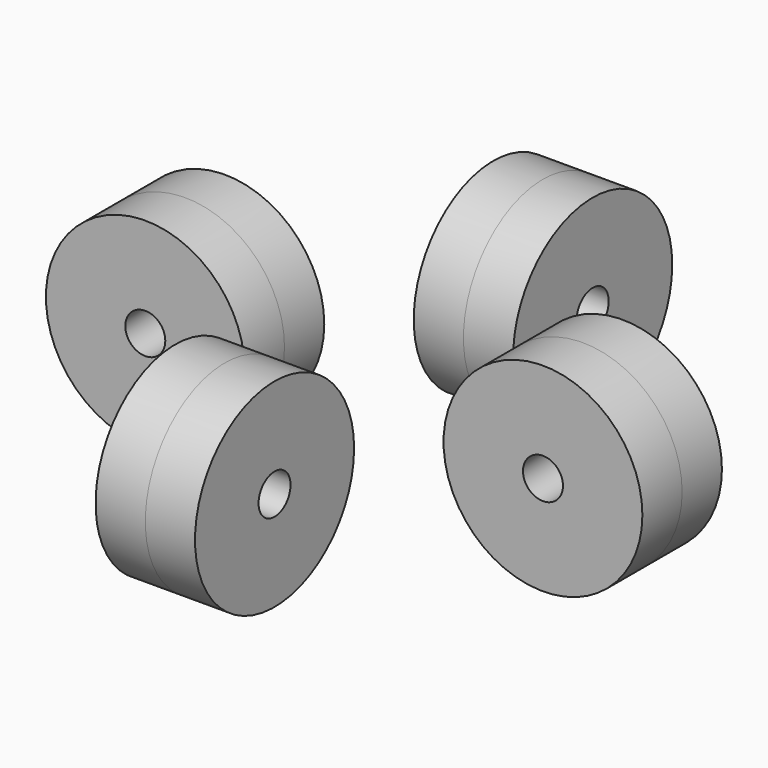
from build123d import *

# Parameters (mm, degrees)
F0_R      = 12.7
F1_DEPTH  = 6.35
F2_DEPTH  = 6.35
F3_R      = 2.5527
F4_DEPTH  = 50.8
F5_R      = 2.5527
F6_DEPTH  = 25.4
F7_R      = 2.5527
F8_DEPTH  = 25.4
F9_R      = 2.5527
F10_DEPTH = 25.4
F11_R     = 12.7
F12_DEPTH = 6.35
F13_DEPTH = 6.35
F14_R     = 2.5527
F15_DEPTH = 25.4
F16_R     = 2.5527
F17_DEPTH = 25.4
F18_R     = 2.5527
F19_DEPTH = 25.4
F20_R     = 2.5527
F21_DEPTH = 25.4


with BuildPart() as f1:
    # F0 (on Front) → F1 (new body)
    with BuildSketch(Plane.XZ):
        with Locations((25.3991128396, 0.2122898001)):
            Circle(F0_R)
    extrude(amount=F1_DEPTH)


with BuildPart() as f1b:
    # F0 (on Front) → F1, piece 2 (new body)
    with BuildSketch(Plane.XZ):
        with Locations((-25.4, 0)):
            Circle(F0_R)
    extrude(amount=F1_DEPTH)


with BuildPart() as f2:
    # F2 (new): a face of the model
    f2_faces = [f1b.part.faces().sort_by_distance(p)[0] for p in [
        (-25.4, 0, 0),
    ]]
    extrude(f2_faces, amount=F2_DEPTH)


with BuildPart() as f2b:
    # F2#2 (new): a face of the model
    f2_2_faces = [f1.part.faces().sort_by_distance(p)[0] for p in [
        (25.3991128396, 0, 0.2122898001),
    ]]
    extrude(f2_2_faces, amount=F2_DEPTH)


with BuildPart() as f4_tool:
    # F3 (on face) → F4 (new body)
    with BuildSketch(Plane.XZ.offset(6.35)):
        with Locations((-25.4, 0)):
            Circle(F3_R)
    extrude(amount=-F4_DEPTH)


with BuildPart() as f1b_1:
    add(f1b.part)

    # F4: cut by f4_tool
    add(f4_tool.part, mode=Mode.SUBTRACT)


with BuildPart() as f2_1:
    add(f2.part)

    # F4: cut by f4_tool
    add(f4_tool.part, mode=Mode.SUBTRACT)


with BuildPart() as f1_1:
    add(f1.part)

    # F5 (on face) → F6 (cut)
    with BuildSketch(Plane(origin=(0, 6.35, 0), x_dir=(-1, 0, 0), z_dir=(0, 1, 0))):
        with Locations((25.4, 0)):
            Circle(F5_R)
    extrude(amount=-F6_DEPTH, mode=Mode.SUBTRACT)


with BuildPart() as f8_tool:
    # F7 (on face) → F8 (new body)
    with BuildSketch(Plane.XZ.offset(6.35)):
        with Locations((25.3991128396, 0.2122898001)):
            Circle(F7_R)
    extrude(amount=-F8_DEPTH)


with BuildPart() as f1_2:
    add(f1_1.part)

    # F8: cut by f8_tool
    add(f8_tool.part, mode=Mode.SUBTRACT)

    # F9 (on face) → F10 (cut)
    with BuildSketch(Plane(origin=(0, 6.35, 0), x_dir=(-1, 0, 0), z_dir=(0, 1, 0))):
        with Locations((-25.3991128396, 0.2122898001)):
            Circle(F9_R)
    extrude(amount=-F10_DEPTH, mode=Mode.SUBTRACT)

    # F16 (on face) → F17 (cut)
    with BuildSketch(Plane.YZ.offset(6.35)):
        with Locations((25.4, 0)):
            Circle(F16_R)
    extrude(amount=-F17_DEPTH, mode=Mode.SUBTRACT)

    # F20 (on face) → F21 (cut)
    with BuildSketch(Plane(origin=(-6.35, 0, 0), x_dir=(0, -1, 0), z_dir=(-1, 0, 0))):
        with Locations((25.4, 0)):
            Circle(F20_R)
    extrude(amount=-F21_DEPTH, mode=Mode.SUBTRACT)


with BuildPart() as f2b_1:
    add(f2b.part)

    # F8: cut by f8_tool
    add(f8_tool.part, mode=Mode.SUBTRACT)


with BuildPart() as f12:
    # F11 (on Right) → F12 (new body)
    with BuildSketch(Plane.YZ):
        with Locations((-25.4, 0)):
            Circle(F11_R)
    extrude(amount=F12_DEPTH)


with BuildPart() as f12b:
    # F11 (on Right) → F12, piece 2 (new body)
    with BuildSketch(Plane.YZ):
        with Locations((25.4, 0)):
            Circle(F11_R)
    extrude(amount=F12_DEPTH)


with BuildPart() as f13:
    # F13 (new): a face of the model
    f13_faces = [f12b.part.faces().sort_by_distance(p)[0] for p in [
        (0, 25.4, 0),
    ]]
    extrude(f13_faces, amount=F13_DEPTH)


with BuildPart() as f13b:
    # F13#2 (new): a face of the model
    f13_2_faces = [f12.part.faces().sort_by_distance(p)[0] for p in [
        (0, -25.4, 0),
    ]]
    extrude(f13_2_faces, amount=F13_DEPTH)


with BuildPart() as f15_tool:
    # F14 (on face) → F15 (new body)
    with BuildSketch(Plane(origin=(-6.35, 0, 0), x_dir=(0, -1, 0), z_dir=(-1, 0, 0))):
        with Locations((-25.4, 0)):
            Circle(F14_R)
    extrude(amount=-F15_DEPTH)


with BuildPart() as f12b_1:
    add(f12b.part)

    # F15: cut by f15_tool
    add(f15_tool.part, mode=Mode.SUBTRACT)


with BuildPart() as f13_1:
    add(f13.part)

    # F15: cut by f15_tool
    add(f15_tool.part, mode=Mode.SUBTRACT)


with BuildPart() as f19_tool:
    # F18 (on face) → F19 (new body)
    with BuildSketch(Plane.YZ.offset(6.35)):
        with Locations((-25.4, 0)):
            Circle(F18_R)
    extrude(amount=-F19_DEPTH)


with BuildPart() as f12_1:
    add(f12.part)

    # F19: cut by f19_tool
    add(f19_tool.part, mode=Mode.SUBTRACT)


with BuildPart() as f13b_1:
    add(f13b.part)

    # F19: cut by f19_tool
    add(f19_tool.part, mode=Mode.SUBTRACT)


solid = Compound([f1b_1.part, f2_1.part, f1_2.part, f2b_1.part, f12b_1.part, f13_1.part, f12_1.part, f13b_1.part])
